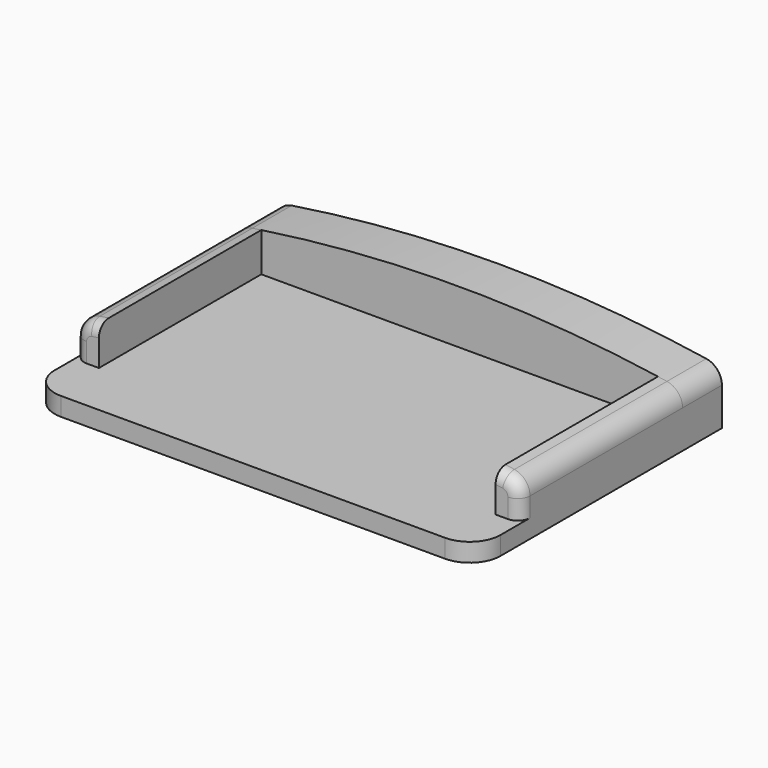
from build123d import *

# Parameters (mm, degrees)
F0_W     = 72.5
F0_H     = 50
F1_DEPTH = 3
F2_R     = 5
F4_DEPTH = 8
F5_R     = 3
F7_DEPTH = 33
F8_R     = 2


with BuildPart() as f1:
    # F0 (on Top) → F1 (new body)
    with BuildSketch(Plane.XY):
        Rectangle(F0_W, F0_H)
    extrude(amount=F1_DEPTH)

    # F2
    f2_edges = [f1.edges().sort_by_distance(p)[0] for p in [
        (36.25, -25, 1.5),
        (-36.25, -25, 1.5),
    ]]
    fillet(f2_edges, radius=F2_R)

    # F3 (on face) → F4 (join)
    with BuildSketch(Plane(origin=(0, 25, 0), x_dir=(-1, 0, 0), z_dir=(0, 1, 0))):
        with BuildLine():
            Line((36.25, 3), (36.25, 8.712942712))
            ThreePointArc((36.25, 8.712942712), (0, 11.712942712), (-36.25, 8.712942712))
            Line((-36.25, 8.712942712), (-36.25, 3))
            Line((-36.25, 3), (36.25, 3))
        make_face()
    extrude(amount=-F4_DEPTH)

    # F5
    f5_edges = [f1.edges().sort_by_distance(p)[0] for p in [
        (36.25, 21, 8.712943),
        (-36.25, 21, 8.712943),
    ]]
    fillet(f5_edges, radius=F5_R)

    # F6 (on face) → F7 (join)
    with BuildSketch(Plane.XZ.offset(-17)):
        with BuildLine():
            Line((32.25, 3), (36.25, 3))
            Line((36.25, 3), (36.25, 6.1565184682))
            ThreePointArc((36.25, 6.1565184682), (35.527695785, 8.1089789443), (33.7085987261, 9.1212591328))
            ThreePointArc((33.7085987261, 9.1212591328), (32.9794838617, 9.2327934458), (32.25, 9.3418882854))
            Line((32.25, 9.3418882854), (32.25, 3))
        make_face()
    extrude(amount=F7_DEPTH)

    # F8
    f8_edges = [f1.edges().sort_by_distance(p)[0] for p in [
        (36.25, -16, 4.578259),
    ]]
    fillet(f8_edges, radius=F8_R)

    # F9: F1 across plane


with BuildPart() as f1_1:
    add(f1.part)
    add(f1.part.mirror(Plane.YZ))


solid = f1_1.part
